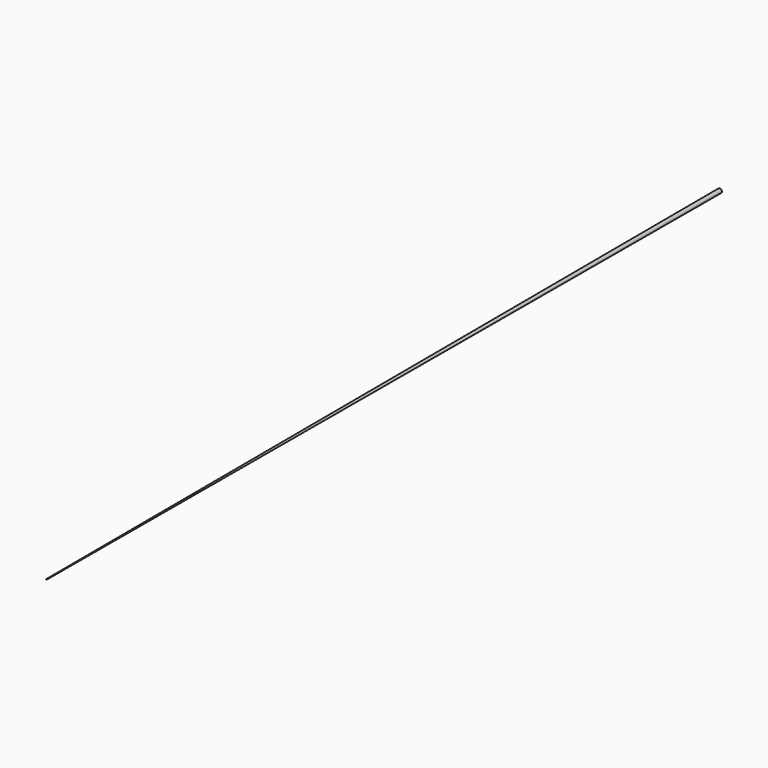
from build123d import *

# Parameters (mm, degrees)
F0_R = 0.75
F2_R = 0.1


with BuildPart() as f3:
    # F0 (on Front) → F3 section 0
    with BuildSketch(Plane.XZ):
        Circle(F0_R)
    # F2 (on offset) → F3 section 1
    with BuildSketch(Plane.XZ.offset(300)):
        Circle(F2_R)
    loft()


solid = f3.part
